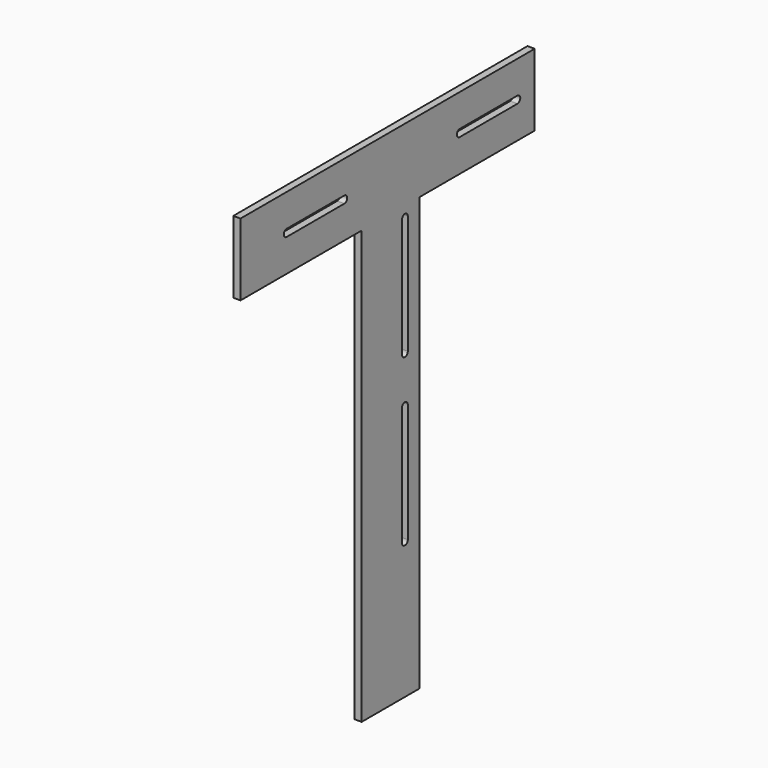
from build123d import *

# Parameters (mm, degrees)
F1_DEPTH = 10


with BuildPart() as f1:
    # F0 (on Right) → F1 (new body)
    with BuildSketch(Plane.YZ):
        Polygon((-57.729214, 86.25), (-57.729214, -513.75), (42.270786, -513.75), (42.270786, 86.25), (242.270786, 86.25), (242.270786, 186.25), (-267.729214, 186.25), (-267.729214, 86.25), align=None)
        with BuildLine():
            ThreePointArc((22.270786, -323.75), (17.270786, -328.75), (12.270786, -323.75))
            Line((12.270786, -323.75), (12.270786, -158.75))
            ThreePointArc((12.270786, -158.75), (17.270786, -153.75), (22.270786, -158.75))
            Line((22.270786, -158.75), (22.270786, -323.75))
        make_face(mode=Mode.SUBTRACT)
        with BuildLine():
            ThreePointArc((-187.729214, 131.25), (-192.729214, 136.25), (-187.729214, 141.25))
            Line((-187.729214, 141.25), (-87.729214, 141.25))
            ThreePointArc((-87.729214, 141.25), (-82.729214, 136.25), (-87.729214, 131.25))
            Line((-87.729214, 131.25), (-187.729214, 131.25))
        make_face(mode=Mode.SUBTRACT)
        with BuildLine():
            Line((22.270786, 71.25), (22.270786, -93.75))
            ThreePointArc((22.270786, -93.75), (17.270786, -98.75), (12.270786, -93.75))
            Line((12.270786, -93.75), (12.270786, 71.25))
            ThreePointArc((12.270786, 71.25), (17.270786, 76.25), (22.270786, 71.25))
        make_face(mode=Mode.SUBTRACT)
        with BuildLine():
            ThreePointArc((112.270786, 131.25), (107.270786, 136.25), (112.270786, 141.25))
            Line((112.270786, 141.25), (212.270786, 141.25))
            ThreePointArc((212.270786, 141.25), (217.270786, 136.25), (212.270786, 131.25))
            Line((212.270786, 131.25), (112.270786, 131.25))
        make_face(mode=Mode.SUBTRACT)
    extrude(amount=F1_DEPTH)


solid = f1.part
